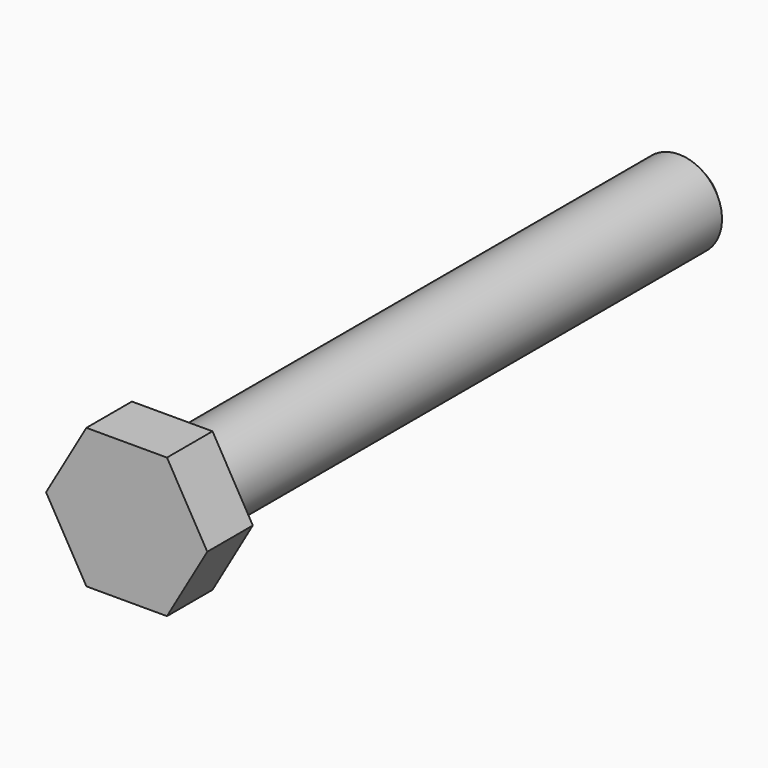
from build123d import *

# Parameters (mm, degrees)
F1_DEPTH = 5.3
F2_R     = 4
F3_DEPTH = 60
F4_SIZE  = 1


with BuildPart() as f1:
    # F0 (on Front) → F1 (new body)
    with BuildSketch(Plane.XZ):
        Polygon((3.752777, -6.5), (7.505553, 0), (3.752777, 6.5), (-3.752777, 6.5), (-7.505553, 0), (-3.752777, -6.5), align=None)
    extrude(amount=F1_DEPTH)

    # F2 (on face) → F3 (join)
    with BuildSketch(Plane(origin=(0, 0, 0), x_dir=(-1, 0, 0), z_dir=(0, 1, 0))):
        Circle(F2_R)
    extrude(amount=F3_DEPTH)

    # F4
    f4_edges = [f1.edges().sort_by_distance(p)[0] for p in [
        (4, 60, 0),
    ]]
    chamfer(f4_edges, length=F4_SIZE)


solid = f1.part
